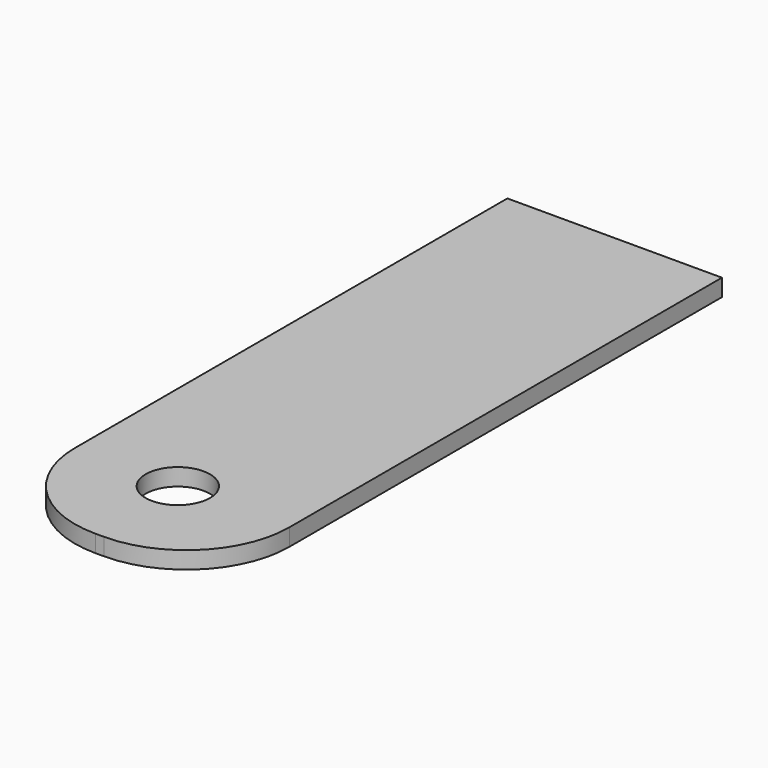
from build123d import *

# Parameters (mm, degrees)
CYLINDER_R     = 0.75
CYLINDER_DEPTH = 10
BOX_W          = 5
BOX_H          = 15
BOX_DEPTH      = 0.4
FILLET_R       = 2.4


with BuildPart() as cylinder:
    # Cylinder → Cylinder (new body)
    with BuildSketch(Plane(origin=(17.4, 2.4, -4.2), x_dir=(1, 0, 0), z_dir=(0, 0, 1))):
        Circle(CYLINDER_R)
    extrude(amount=CYLINDER_DEPTH)


with BuildPart() as cut:
    # Box → Box (new body)
    with BuildSketch(Plane(origin=(15, 0, 0), x_dir=(1, 0, 0), z_dir=(0, 0, 1))):
        with Locations((2.5, 7.5)):
            Rectangle(BOX_W, BOX_H)
    extrude(amount=BOX_DEPTH)

    # Fillet
    fillet_edges = [cut.edges().sort_by_distance(p)[0] for p in [
        (15, 0, 0.2),
        (20, 0, 0.2),
    ]]
    fillet(fillet_edges, radius=FILLET_R)

    # Cut: cut Cylinder
    add(cylinder.part, mode=Mode.SUBTRACT)


solid = cut.part
